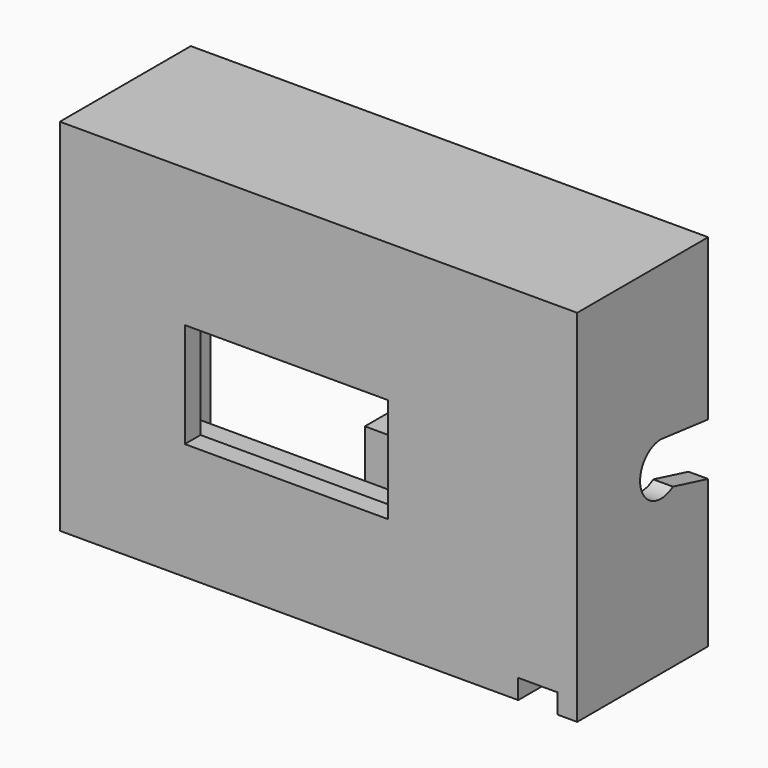
from build123d import *

# Parameters (mm, degrees)
F0_W      = 79
F0_H      = 55
F0_W_2    = 73
F0_H_2    = 49
F1_DEPTH  = 25
F3_DEPTH  = 79
F0_W_3    = 31
F0_H_3    = 16
F4_DEPTH  = 3
F5_W      = 6
F5_H      = 4
F6_DEPTH  = 3
F5_W_2    = 37
F5_W_3    = 7
F7_DEPTH  = 6
F8_W      = 5
F8_H      = 5
F9_DEPTH  = 12.86194
F10_R     = 1.75
F11_DEPTH = 4
F12_W     = 6
F12_H     = 3
F13_DEPTH = 25
F14_DEPTH = 25


with BuildPart() as f1:
    # F0 (on Front) → F1 (new body)
    with BuildSketch(Plane.XZ):
        Rectangle(F0_W, F0_H)
        Rectangle(F0_W_2, F0_H_2, mode=Mode.SUBTRACT)
    extrude(amount=-F1_DEPTH)

    # F2 (on face) → F3 (cut, through all)
    with BuildSketch(Plane(origin=(-39.5, 0, 0), x_dir=(0, -1, 0), z_dir=(-1, 0, 0))):
        with BuildLine():
            Line((-25, -5), (-18.267742, -3.295049))
            ThreePointArc((-18.267742, -3.295049), (-12.180301, -1.187393), (-16, 4))
            Line((-16, 4), (-16.878049, 3.902439))
            Line((-16.878049, 3.902439), (-25, 3))
            Line((-25, 3), (-25, -5))
        make_face()
    extrude(amount=-F3_DEPTH, mode=Mode.SUBTRACT)

    # F0 (on Front) → F4 (join)
    with BuildSketch(Plane.XZ):
        Rectangle(F0_W_2, F0_H_2)
        with Locations((-4.921641, -1.63806)):
            Rectangle(F0_W_3, F0_H_3, mode=Mode.SUBTRACT)
    extrude(amount=-F4_DEPTH)

    # F5 (on face) → F6 (join)
    with BuildSketch(Plane(origin=(0, 3, 0), x_dir=(-1, 0, 0), z_dir=(0, 1, 0))):
        with Locations((-8.578359, -13.63806)):
            Rectangle(F5_W, F5_H)
    extrude(amount=F6_DEPTH)

    # F5 (on face) → F7 (join)
    with BuildSketch(Plane(origin=(0, 3, 0), x_dir=(-1, 0, 0), z_dir=(0, 1, 0))):
        with Locations((12.921641, -13.63806)):
            Rectangle(F5_W_2, F5_H)
        with Locations((-15.078359, -13.63806)):
            Rectangle(F5_W_3, F5_H)
    extrude(amount=F7_DEPTH)

    # F8 (on face) → F9 (join)
    with BuildSketch(Plane.XY.offset(-24.5)):
        with Locations((-6.421641, 22.5)):
            Rectangle(F8_W, F8_H)
    extrude(amount=F9_DEPTH)

    # F10 (on face) → F11 (cut, through all)
    with BuildSketch(Plane.XY.offset(-11.63806)):
        with Locations((14.828359, 5.95)):
            Circle(F10_R)
        with Locations((-28.071641, 5.95)):
            Circle(F10_R)
    extrude(amount=-F11_DEPTH, mode=Mode.SUBTRACT)

    # F12 (on face) → F13 (cut, through all)
    with BuildSketch(Plane.XZ):
        with Locations((33.5, -26)):
            Rectangle(F12_W, F12_H)
    extrude(amount=-F13_DEPTH, mode=Mode.SUBTRACT)

    # F12 (on face) → F14 (join, through all)
    with BuildSketch(Plane.XZ):
        Polygon((27.5, -27.5), (30.5, -27.5), (30.5, -24.5), (36.5, -24.5), (36.5, -21.5), (27.5, -21.5), align=None)
    extrude(amount=-F14_DEPTH)


solid = f1.part
